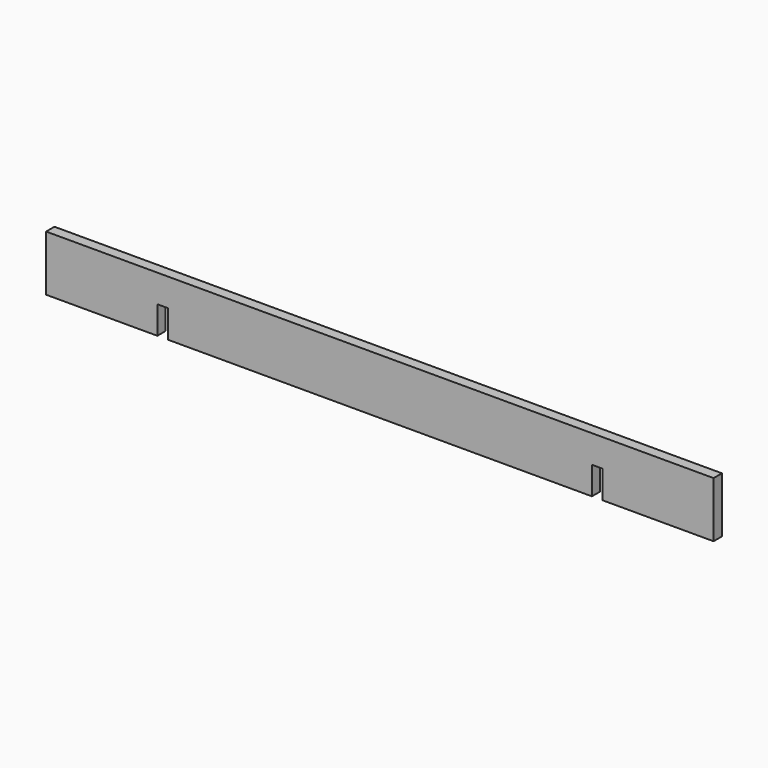
from build123d import *

# Parameters (mm, degrees)
F1_DEPTH = 101.6
F2_W     = 19.05
F2_H     = 50.8
F3_DEPTH = 25.4


with BuildPart() as f1:
    # F0 (on Top) → F1 (new body)
    with BuildSketch(Plane.XY):
        Polygon((609.6, -9.525), (609.6, 0), (609.6, 9.525), (-609.6, 9.525), (-609.6, 0), (-609.6, -9.525), align=None)
    extrude(amount=-F1_DEPTH)

    # F2 (on face) → F3 (cut)
    with BuildSketch(Plane.XZ.offset(9.525)):
        with Locations((-396.875, -76.2)):
            Rectangle(F2_W, F2_H)
        with Locations((396.875, -76.2)):
            Rectangle(F2_W, F2_H)
    extrude(amount=-F3_DEPTH, mode=Mode.SUBTRACT)


solid = f1.part
